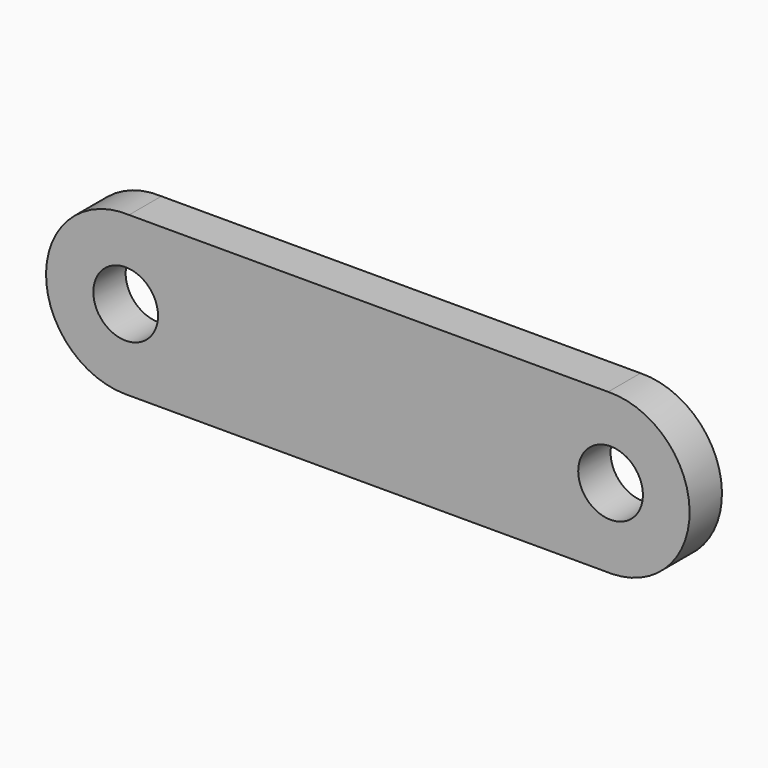
from build123d import *

# Parameters (mm, degrees)
F0_R     = 101.6
F1_DEPTH = 127


with BuildPart() as f1:
    # F0 (on Front) → F1 (new body)
    with BuildSketch(Plane.XZ):
        with BuildLine():
            ThreePointArc((-722.9421635172, -249.79241048), (-548.1645057738, -175.6208384233), (-476.0120778236, 0))
            ThreePointArc((-476.0120778236, 0), (-545.3928207836, 172.7720479201), (-714.9961059612, 249.5743505755))
            ThreePointArc((-714.9961059612, 249.5743505755), (-975.5365160272, 6.8364028409), (-728.6671666698, -249.7927866438))
            Line((-728.6671666698, -249.7927866438), (-722.9421635172, -249.79241048))
        make_face()
        with Locations((-725.5384325981, 0)):
            Circle(F0_R, mode=Mode.SUBTRACT)
        with BuildLine():
            ThreePointArc((-714.9961059612, 249.5743505755), (-545.3928207836, 172.7720479201), (-476.0120778236, 0))
            Line((-476.0120778236, 0), (546.179202095, 0))
            ThreePointArc((546.179202095, 0), (617.2275203446, 174.4968628404), (789.9586907535, 249.7362237922))
            Line((789.9586907535, 249.7362237922), (-714.9961059612, 249.5743505755))
        make_face()
        with BuildLine():
            Line((546.179202095, 0), (-476.0120778236, 0))
            ThreePointArc((-476.0120778236, 0), (-548.1645057738, -175.6208384233), (-722.9421635172, -249.79241048))
            Line((-722.9421635172, -249.79241048), (788.379779932, -249.6931084215))
            ThreePointArc((788.379779932, -249.6931084215), (616.6767568201, -173.9308542911), (546.179202095, 0))
        make_face()
        with BuildLine():
            ThreePointArc((789.9586907535, 249.7362237922), (617.2275203446, 174.4968628404), (546.179202095, 0))
            ThreePointArc((546.179202095, 0), (616.6767568201, -173.9308542911), (788.379779932, -249.6931084215))
            Line((788.379779932, -249.6931084215), (803.6294365785, -249.6921064362))
            ThreePointArc((803.6294365785, -249.6921064362), (975.3110751844, -173.91907218), (1045.797202095, 0))
            ThreePointArc((1045.797202095, 0), (970.4850649354, 178.7606817504), (789.9586907535, 249.7362237922))
        make_face()
        with BuildLine():
            ThreePointArc((899.1158691406, 0), (797.5158691406, -101.6), (695.9158691406, 0))
            ThreePointArc((695.9158691406, 0), (797.5158691406, 101.6), (899.1158691406, 0))
        make_face(mode=Mode.SUBTRACT)
        with BuildLine():
            ThreePointArc((-728.6671666698, -249.7927866438), (-725.8046640158, -249.8089994608), (-722.9421635172, -249.79241048))
            Line((-722.9421635172, -249.79241048), (-728.6671666698, -249.7927866438))
        make_face()
        with BuildLine():
            Line((803.6294365785, -249.6921064362), (788.379779932, -249.6931084215))
            ThreePointArc((788.379779932, -249.6931084215), (796.0046159028, -249.8089994608), (803.6294365785, -249.6921064362))
        make_face()
    extrude(amount=F1_DEPTH)


solid = f1.part
